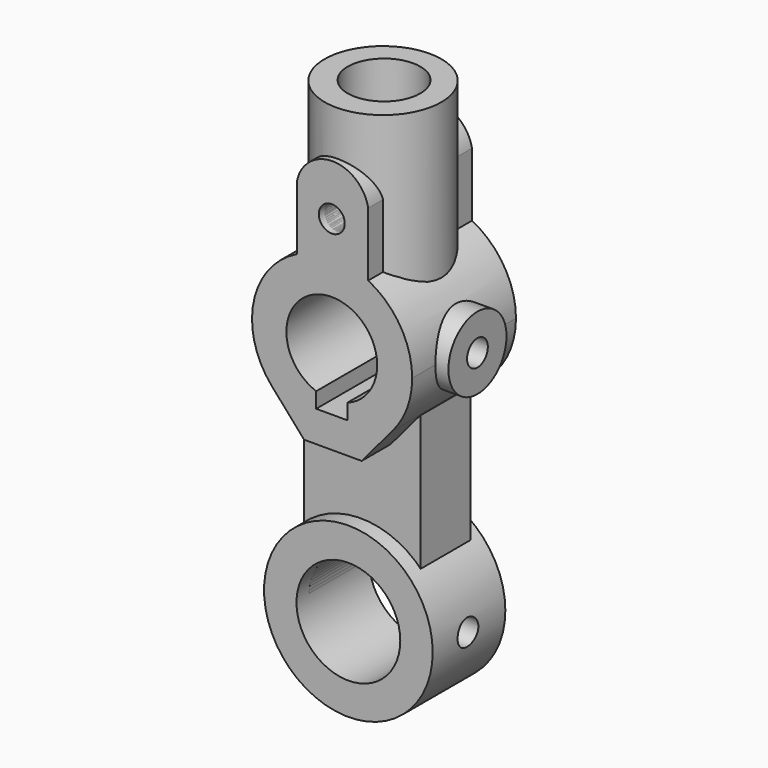
from build123d import *

# Parameters (mm, degrees)
F0_R      = 5
F2_DEPTH  = 50
F3_START  = 12
F3_DEPTH  = 24
F5_START  = 7
F4_R      = 32.5
F5_DEPTH  = 35
F7_START  = 72
F6_R      = 22.5
F7_DEPTH  = 62
F9_START  = 70
F8_R      = 14
F9_DEPTH  = 64
F10_R     = 5
F11_DEPTH = 50
F12_R     = 20
F13_DEPTH = 50
F15_R     = 14
F16_DEPTH = 9
F17_R     = 5
F18_DEPTH = 25


with BuildPart() as f2:
    # F0 (on Front) → F2 (new body)
    with BuildSketch(Plane.XZ):
        with BuildLine():
            ThreePointArc((23.3249049634, 32.7189452946), (29.0139584962, 42.2278583334), (30.9946966627, 53.1302174173))
            ThreePointArc((30.9946966627, 53.1302174173), (26.4203978357, 69.3361977769), (14.047681354, 80.7587148392))
            Line((14.047681354, 80.7587148392), (14.047681354, 105.3561385202))
            ThreePointArc((14.047681354, 105.3561385202), (0.286036171, 116.7837618258), (-13.4756090119, 105.3561385202))
            Line((-13.4756090119, 105.3561385202), (-13.4756090119, 80.7587148392))
            ThreePointArc((-13.4756090119, 80.7587148392), (-30.142001346, 59.1622703758), (-23.0701036466, 32.8152912355))
            Line((-23.0701036466, 32.8152912355), (-10.6616867488, 18.7240038067))
            Line((-10.6616867488, 18.7240038067), (11.5198987831, 18.7240038067))
            Line((11.5198987831, 18.7240038067), (23.3249049634, 32.7189452946))
        make_face()
        with BuildLine():
            Line((-6, 30.7302174173), (-6, 36.6909351945))
            ThreePointArc((-6, 36.6909351945), (-10.0312013239, 67.469847817), (17.5, 53.1302174173))
            ThreePointArc((17.5, 53.1302174173), (14.3396303997, 43.0990160934), (6, 36.6909351945))
            Line((6, 36.6909351945), (6, 30.7302174173))
            Line((6, 30.7302174173), (-6, 30.7302174173))
        make_face(mode=Mode.SUBTRACT)
        with Locations((0, 97.1302174173)):
            Circle(F0_R, mode=Mode.SUBTRACT)
    extrude(amount=F2_DEPTH)


with BuildPart() as f3:
    # F1 (on Front) → F3 (new body)
    with BuildSketch(Plane.XZ.offset(F3_START)):
        Polygon((-21.949188821, 32.2599863493), (-21.949188821, -42.7400136507), (23.050811179, -42.7400136507), (23.050811179, 32.2599863493), (10.7294600457, 32.4856974185), (10.7294600457, 24.0887310356), (-9.5632132143, 24.0887310356), (-9.5632132143, 32.2599863493), align=None)
    extrude(amount=F3_DEPTH)


with BuildPart() as f5:
    # F4 (on Front) → F5 (new body)
    with BuildSketch(Plane.XZ.offset(F5_START)):
        with Locations((0, -42.6609367132)):
            Circle(F4_R)
    extrude(amount=F5_DEPTH)


with BuildPart() as f7:
    # F6 (on Top) → F7 (new body)
    with BuildSketch(Plane.XY.offset(F7_START)):
        with Locations((0, -25.312500093)):
            Circle(F6_R)
    extrude(amount=F7_DEPTH)


with BuildPart() as f9_tool:
    # F8 (on Top) → F9 (new body)
    with BuildSketch(Plane.XY.offset(F9_START)):
        with Locations((0, -24.8193332147)):
            Circle(F8_R)
    extrude(amount=F9_DEPTH)


with BuildPart() as f2_1:
    add(f2.part)

    # F9: cut by f9_tool
    add(f9_tool.part, mode=Mode.SUBTRACT)

    # F15 (on offset) → F16 (join)
    with BuildSketch(Plane.YZ.offset(36)):
        with Locations((-24.8130656779, 53.1302174173)):
            Circle(F15_R)
    extrude(amount=-F16_DEPTH)


with BuildPart() as f7_1:
    add(f7.part)

    # F9: cut by f9_tool
    add(f9_tool.part, mode=Mode.SUBTRACT)

    # F10 (on Front) → F11 (cut)
    with BuildSketch(Plane.XZ):
        with Locations((0, 97.1302174173)):
            Circle(F10_R)
    extrude(amount=F11_DEPTH, mode=Mode.SUBTRACT)


with BuildPart() as f13_tool:
    # F12 (on Front) → F13 (new body)
    with BuildSketch(Plane.XZ):
        with Locations((0, -42.8135320544)):
            Circle(F12_R)
    extrude(amount=F13_DEPTH)


with BuildPart() as f3_1:
    add(f3.part)

    # F13: cut by f13_tool
    add(f13_tool.part, mode=Mode.SUBTRACT)


with BuildPart() as f5_1:
    add(f5.part)

    # F13: cut by f13_tool
    add(f13_tool.part, mode=Mode.SUBTRACT)


with BuildPart() as f18_tool:
    # F17 (on offset) → F18 (new body)
    with BuildSketch(Plane.YZ.offset(36)):
        with Locations((-24.8130656779, 53.1302174173)):
            Circle(F17_R)
        with Locations((-25, -42.8697825827)):
            Circle(F17_R)
    extrude(amount=-F18_DEPTH)


with BuildPart() as f2_2:
    add(f2_1.part)

    # F18: cut by f18_tool
    add(f18_tool.part, mode=Mode.SUBTRACT)


with BuildPart() as f3_2:
    add(f3_1.part)

    # F18: cut by f18_tool
    add(f18_tool.part, mode=Mode.SUBTRACT)


with BuildPart() as f5_2:
    add(f5_1.part)

    # F18: cut by f18_tool
    add(f18_tool.part, mode=Mode.SUBTRACT)


solid = Compound([f7_1.part, f2_2.part, f3_2.part, f5_2.part])
